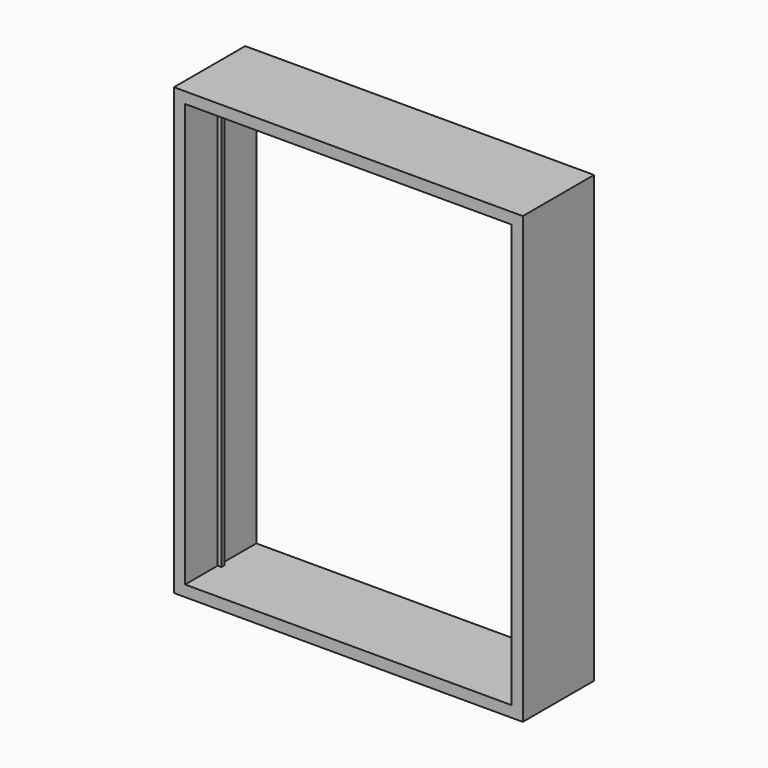
from build123d import *

# Parameters (mm, degrees)
F0_W     = 596.9
F0_H     = 762
F0_W_2   = 558.8
F0_H_2   = 723.9
F1_DEPTH = 152.4
F2_W     = 6.35
F2_H     = 6.35
F3_DEPTH = 723.9


with BuildPart() as f1:
    # F0 (on Front) → F1 (new body)
    with BuildSketch(Plane.XZ):
        with Locations((-279.4, 361.95)):
            Rectangle(F0_W, F0_H)
        with Locations((-279.4, 361.95)):
            Rectangle(F0_W_2, F0_H_2, mode=Mode.SUBTRACT)
    extrude(amount=F1_DEPTH)

    # F2 (on face) → F3 (join, through all)
    with BuildSketch(Plane.XY):
        with Locations((-555.625, -79.375)):
            Rectangle(F2_W, F2_H)
        with Locations((-3.175, -79.375)):
            Rectangle(F2_W, F2_H)
    extrude(amount=F3_DEPTH)


solid = f1.part
